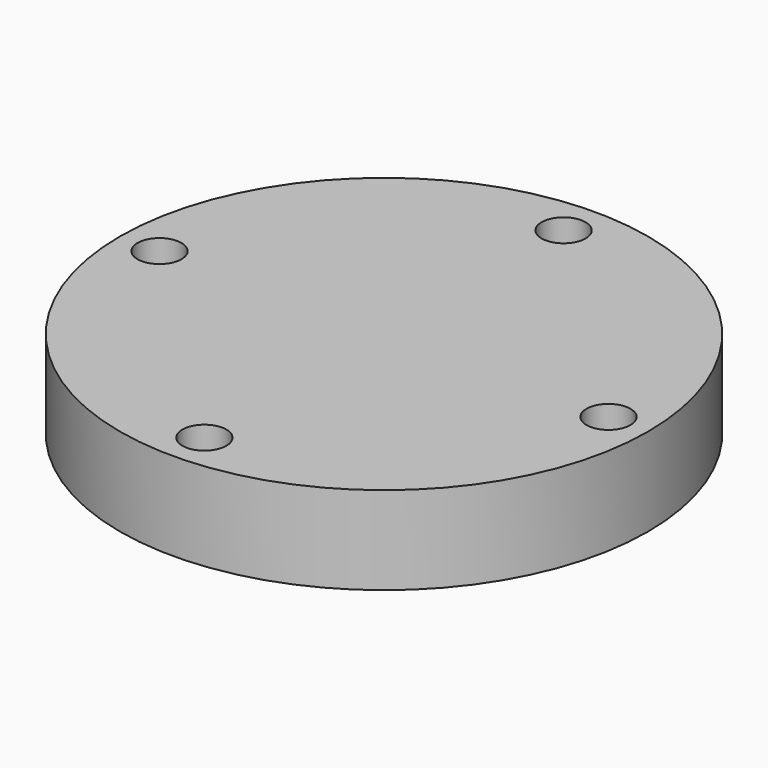
from build123d import *

# Parameters (mm, degrees)
F0_R     = 30
F1_DEPTH = 10
F2_R     = 2.5
F3_DEPTH = 10.001
F4_R     = 9
F5_DEPTH = 1.5
F6_R     = 7.5
F7_DEPTH = 10


with BuildPart() as f1:
    # F0 (on Top) → F1 (new body)
    with BuildSketch(Plane.XY):
        Circle(F0_R)
    extrude(amount=F1_DEPTH)

    # F2 (on face) → F3 (cut, through all)
    with BuildSketch(Plane.XY.offset(10)):
        with BuildLine():
            ThreePointArc((0, 23), (1.767767, 23.732233), (2.5, 25.5))
            ThreePointArc((2.5, 25.5), (-1.767767, 27.267767), (0, 23))
        make_face()
        with Locations((25.5, 0)):
            Circle(F2_R)
        with Locations((0, -25.5)):
            Circle(F2_R)
        with Locations((-25.5, 0)):
            Circle(F2_R)
    extrude(amount=-F3_DEPTH, mode=Mode.SUBTRACT)

    # F4 (on face) → F5 (join)
    with BuildSketch(Plane(origin=(0, 0, 0), x_dir=(1, 0, 0), z_dir=(0, 0, -1))):
        Circle(F4_R)
    extrude(amount=F5_DEPTH)

    # F6 (on face) → F7 (join)
    with BuildSketch(Plane(origin=(0, 0, -1.5), x_dir=(1, 0, 0), z_dir=(0, 0, -1))):
        Circle(F6_R)
    extrude(amount=F7_DEPTH)


solid = f1.part
